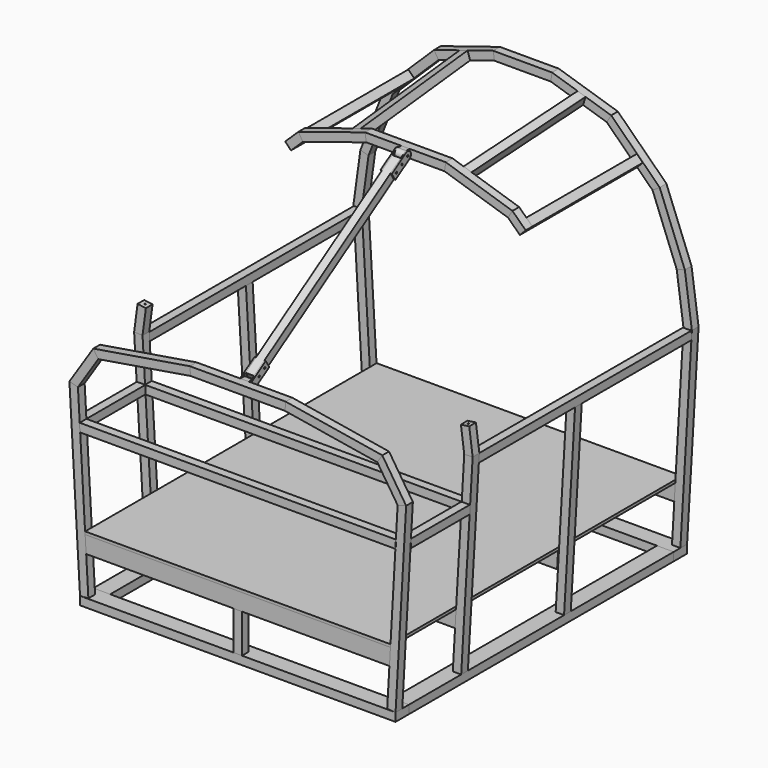
from build123d import *

# Parameters (mm, degrees)
F1_DEPTH  = 76.2
F2_W      = 76.2
F2_H      = 38.1
F3_DEPTH  = 1504.95
F4_W      = 1435.1
F4_H      = 38.1
F5_DEPTH  = 76.2
F7_DEPTH  = 38.1
F8_DEPTH  = 38.1
F9_DEPTH  = 38.1
F10_DEPTH = 38.1
F11_DEPTH = 38.1
F12_DEPTH = 38.1
F18_DEPTH = 19.05
F20_DEPTH = 38.1
F21_DEPTH = 38.1
F25_DEPTH = 38.1
F26_DEPTH = 38.1
F29_DEPTH = 38.1
F30_DEPTH = 38.1
F31_DEPTH = 38.1
F32_DEPTH = 38.1
F33_DEPTH = 38.1
F35_DEPTH = 38.1
F36_W     = 38.1
F36_H     = 38.1
F37_DEPTH = 334.8482
F39_W     = 38.1
F39_H     = 38.1
F40_DEPTH = 1208.2018
F42_DEPTH = 38.1
F45_DEPTH = 628.0912
F51_R     = 3.175
F52_DEPTH = 19.05
F53_R     = 4.191
F54_DEPTH = 6.35
F57_DEPTH = 38.1
F58_DEPTH = 38.1
F60_DEPTH = 38.1
F62_DEPTH = 38.1
F64_DEPTH = 38.1
F65_W     = 38.1
F65_H     = 176.6824
F66_DEPTH = 38.1
F67_W     = 38.1
F67_H     = 176.6824
F68_DEPTH = 38.1
F69_W     = 38.1
F69_H     = 38.1
F70_DEPTH = 334.8482
F71_W     = 38.1
F71_H     = 38.1
F72_DEPTH = 542.0106
F73_W     = 38.1
F73_H     = 38.1
F74_DEPTH = 628.0912
F75_W     = 1388.5502238782
F75_H     = 1657.35
F76_DEPTH = 12.7
F77_R     = 3.175
F78_DEPTH = 25.4
F79_R     = 3.175
F80_DEPTH = 25.4
F81_R     = 3.175
F82_DEPTH = 25.4
F83_R     = 3.175
F84_DEPTH = 25.4


with BuildPart() as f1:
    # F0 (on Front) → F1 (new body)
    with BuildSketch(Plane.XZ):
        Polygon((-717.55, 0), (0, 0), (717.55, 0), (717.55, 38.1), (0, 38.1), (-717.55, 38.1), align=None)
    extrude(amount=-F1_DEPTH)


with BuildPart() as f3:
    # F2 (on face) → F3 (new body)
    with BuildSketch(Plane(origin=(0, 76.2, 0), x_dir=(-1, 0, 0), z_dir=(0, 1, 0))):
        with Locations((-679.45, 19.05)):
            Rectangle(F2_W, F2_H)
    extrude(amount=F3_DEPTH)


with BuildPart() as f3b:
    # F2 (on face) → F3, piece 2 (new body)
    with BuildSketch(Plane(origin=(0, 76.2, 0), x_dir=(-1, 0, 0), z_dir=(0, 1, 0))):
        with Locations((679.45, 19.05)):
            Rectangle(F2_W, F2_H)
    extrude(amount=F3_DEPTH)


with BuildPart() as f5:
    # F4 (on face) → F5 (new body)
    with BuildSketch(Plane(origin=(0, 1581.15, 0), x_dir=(-1, 0, 0), z_dir=(0, 1, 0))):
        with Locations((0, 19.05)):
            Rectangle(F4_W, F4_H)
    extrude(amount=F5_DEPTH)


with BuildPart() as f7:
    # F6 (on face) → F7 (new body)
    with BuildSketch(Plane(origin=(0, 1657.35, 0), x_dir=(-1, 0, 0), z_dir=(0, 1, 0))):
        Polygon((-731.585384678, 924.5893543266), (-769.8393964493, 926.084), (-717.55, 38.1), (-679.3840012111, 38.1), (-689.7880355847, 214.7824), (-694.2751119391, 290.9824), align=None)
    extrude(amount=-F7_DEPTH)


with BuildPart() as f8:
    # F6 (on face) → F8 (new body)
    with BuildSketch(Plane(origin=(0, 1657.35, 0), x_dir=(-1, 0, 0), z_dir=(0, 1, 0))):
        Polygon((-737.8697023898, 1158.113), (-769.8393964493, 926.084), (-731.585384678, 924.5893543266), (-700.7408249736, 1148.4523769238), align=None)
    extrude(amount=-F8_DEPTH)


with BuildPart() as f9:
    # F6 (on face) → F9 (new body)
    with BuildSketch(Plane(origin=(0, 1657.35, 0), x_dir=(-1, 0, 0), z_dir=(0, 1, 0))):
        Polygon((-623.4867436921, 1451.1274), (-737.8697023898, 1158.113), (-700.7408249736, 1148.4523769238), (-590.9644218941, 1429.6661805248), align=None)
    extrude(amount=-F9_DEPTH)


with BuildPart() as f10:
    # F6 (on face) → F10 (new body)
    with BuildSketch(Plane(origin=(0, 1657.35, 0), x_dir=(-1, 0, 0), z_dir=(0, 1, 0))):
        Polygon((-402.7496847997, 1667.9164), (-623.4867436921, 1451.1274), (-590.9644218941, 1429.6661805248), (-382.599937512, 1634.3038994078), align=None)
    extrude(amount=-F10_DEPTH)


with BuildPart() as f11:
    # F6 (on face) → F11 (new body)
    with BuildSketch(Plane(origin=(0, 1657.35, 0), x_dir=(-1, 0, 0), z_dir=(0, 1, 0))):
        Polygon((-133.8208125622, 1752.1936), (-402.7496847997, 1667.9164), (-382.599937512, 1634.3038994078), (-127.9906932986, 1714.0936), align=None)
    extrude(amount=-F11_DEPTH)


with BuildPart() as f12:
    # F6 (on face) → F12 (new body)
    with BuildSketch(Plane(origin=(0, 1657.35, 0), x_dir=(-1, 0, 0), z_dir=(0, 1, 0))):
        Polygon((0, 1752.1936), (-133.8208125622, 1752.1936), (-127.9906932986, 1714.0936), (0, 1714.0936), (127.9906932986, 1714.0936), (133.8208125622, 1752.1936), align=None)
    extrude(amount=-F12_DEPTH)


with BuildPart() as f13_1:
    # F13: instance of F11
    add(f11.part.mirror(Plane.YZ))


with BuildPart() as f13_2:
    # F13: instance of F10
    add(f10.part.mirror(Plane.YZ))


with BuildPart() as f13_3:
    # F13: instance of F9
    add(f9.part.mirror(Plane.YZ))


with BuildPart() as f13_4:
    # F13: instance of F8
    add(f8.part.mirror(Plane.YZ))


with BuildPart() as f13_5:
    # F13: instance of F7
    add(f7.part.mirror(Plane.YZ))


with BuildPart() as f18:
    # F17 (on offset) → F18 (new body, symmetric)
    with BuildSketch(Plane(origin=(0, 977.0491, 0), x_dir=(-1, 0, 0), z_dir=(0, 1, 0))):
        Polygon((-679.3840012111, 38.1), (-729.3418465009, 886.4893543266), (-767.5078452897, 886.4893543266), (-717.55, 38.1), align=None)
    extrude(amount=F18_DEPTH, both=True)


with BuildPart() as f19_1:
    # F19: instance of F18
    add(f18.part.mirror(Plane.YZ))


with BuildPart() as f20:
    # F16 (on offset) → F20 (new body)
    with BuildSketch(Plane(origin=(0, 991.1588, 0), x_dir=(-1, 0, 0), z_dir=(0, 1, 0))):
        Polygon((-177.7352967525, 1641.856), (-183.642, 1679.956), (-486.7320398449, 1583.6646), (-466.6687442564, 1550.0621351102), align=None)
    extrude(amount=-F20_DEPTH)


with BuildPart() as f21:
    # F16 (on offset) → F21 (new body)
    with BuildSketch(Plane(origin=(0, 991.1588, 0), x_dir=(-1, 0, 0), z_dir=(0, 1, 0))):
        Polygon((183.642, 1679.956), (-183.642, 1679.956), (-177.7352967525, 1641.856), (177.7352967525, 1641.856), align=None)
    extrude(amount=-F21_DEPTH)


with BuildPart() as f22_1:
    # F22: instance of F20
    add(f20.part.mirror(Plane.YZ))


with BuildPart() as f25:
    # F24 (on offset) → F25 (new body)
    with BuildSketch(Plane(origin=(0, 411.0482, 0), x_dir=(-1, 0, 0), z_dir=(0, 1, 0))):
        Polygon((-720.1685338879, 730.7072), (-731.585384678, 924.5893543266), (-769.8393964493, 926.084), (-717.55, 38.1), (-679.3840012111, 38.1), (-717.9249957107, 692.6072), align=None)
    extrude(amount=-F25_DEPTH)


with BuildPart() as f26:
    # F24 (on offset) → F26 (new body)
    with BuildSketch(Plane(origin=(0, 411.0482, 0), x_dir=(-1, 0, 0), z_dir=(0, 1, 0))):
        Polygon((-769.8393964493, 926.084), (-731.585384678, 924.5893543266), (-716.3666183451, 1038.641758548), (-754.1312264878, 1043.686), align=None)
    extrude(amount=-F26_DEPTH)


with BuildPart() as f27_1:
    # F27: instance of F25
    add(f25.part.mirror(Plane.YZ))


with BuildPart() as f27_2:
    # F27: instance of F26
    add(f26.part.mirror(Plane.YZ))

    # F77 (on face) → F78 (cut)
    with BuildSketch(Plane(origin=(123.7435114836, 0, 926.4277425814), x_dir=(0.9911970641, 0, -0.1323947888), z_dir=(0.1323947888, 0, 0.9911970641))):
        with Locations((-866.6212451589, 391.9982)):
            Circle(F77_R)
    extrude(amount=-F78_DEPTH, mode=Mode.SUBTRACT)


with BuildPart() as f29:
    # F24 (on offset) → F29 (new body)
    with BuildSketch(Plane(origin=(0, 411.0482, 0), x_dir=(-1, 0, 0), z_dir=(0, 1, 0))):
        Polygon((0, 730.7072), (-720.1685338879, 730.7072), (-717.9249957107, 692.6072), (0, 692.6072), (717.9249957107, 692.6072), (720.1685338879, 730.7072), align=None)
    extrude(amount=-F29_DEPTH)


with BuildPart() as f30:
    # F28 (on face) → F30 (new body)
    with BuildSketch(Plane.XZ):
        Polygon((679.5121095345, 40.2746008676), (717.55, 38.1), (765.7437829273, 881.1006), (726.9927701037, 870.8013393187), (718.9836814509, 730.7072), (720.1685338879, 730.7072), (717.9249957107, 692.6072), (716.8055298227, 692.6072), align=None)
    extrude(amount=-F30_DEPTH)


with BuildPart() as f31:
    # F28 (on face) → F31 (new body)
    with BuildSketch(Plane.XZ):
        Polygon((726.9927701037, 870.8013393187), (765.7437829273, 881.1006), (657.354913428, 1047.75), (634.583696639, 1012.8815798321), align=None)
    extrude(amount=-F31_DEPTH)


with BuildPart() as f32:
    # F28 (on face) → F32 (new body)
    with BuildSketch(Plane.XZ):
        Polygon((634.583696639, 1012.8815798321), (657.354913428, 1047.75), (217.8616634535, 1119.9876), (214.7513645654, 1081.8876), align=None)
    extrude(amount=-F32_DEPTH)


with BuildPart() as f33:
    # F28 (on face) → F33 (new body)
    with BuildSketch(Plane.XZ):
        Polygon((214.7513645654, 1081.8876), (217.8616634535, 1119.9876), (0, 1119.9876), (-217.8616634535, 1119.9876), (-214.7513645654, 1081.8876), (0, 1081.8876), align=None)
    extrude(amount=-F33_DEPTH)


with BuildPart() as f34_1:
    # F34: instance of F32
    add(f32.part.mirror(Plane.YZ))


with BuildPart() as f34_2:
    # F34: instance of F31
    add(f31.part.mirror(Plane.YZ))


with BuildPart() as f34_3:
    # F34: instance of F30
    add(f30.part.mirror(Plane.YZ))


with BuildPart() as f35:
    # F28 (on face) → F35 (new body)
    with BuildSketch(Plane.XZ):
        Polygon((0, 692.6072), (716.8055298227, 692.6072), (718.9836814509, 730.7072), (0, 730.7072), (-720.1685338879, 730.7072), (-717.9249957107, 692.6072), align=None)
    extrude(amount=-F35_DEPTH)


with BuildPart() as f37:
    # F36 (on face) → F37 (new body, through all)
    with BuildSketch(Plane.XZ.offset(-372.9482)):
        with Locations((738.0336814509, 711.6572)):
            Rectangle(F36_W, F36_H)
    extrude(amount=F37_DEPTH)


with BuildPart() as f38_1:
    # F38: instance of F37
    add(f37.part.mirror(Plane.YZ))


with BuildPart() as f40:
    # F39 (on face) → F40 (new body, through all)
    with BuildSketch(Plane.XZ.offset(-1619.25)):
        with Locations((748.3918465009, 905.5393543266)):
            Rectangle(F39_W, F39_H)
    extrude(amount=F40_DEPTH)


with BuildPart() as f41_1:
    # F41: instance of F40
    add(f40.part.mirror(Plane.YZ))


with BuildPart() as f42:
    # F16 (on offset) → F42 (new body)
    with BuildSketch(Plane(origin=(0, 991.1588, 0), x_dir=(-1, 0, 0), z_dir=(0, 1, 0))):
        Polygon((-466.6687442564, 1550.0621351102), (-486.7320398449, 1583.6646), (-546.9520067768, 1525.397), (-520.4587484844, 1498.0160346216), align=None)
    extrude(amount=-F42_DEPTH)


with BuildPart() as f43_1:
    # F43: instance of F42
    add(f42.part.mirror(Plane.YZ))

    # F83 (on face) → F84 (cut)
    with BuildSketch(Plane(origin=(479.7985563096, 0, 464.2432034423), x_dir=(0, -1, 0), z_dir=(-0.7186605086, 0, -0.69536111))):
        with Locations((-972.1088, 1457.5217384357)):
            Circle(F83_R)
    extrude(amount=-F84_DEPTH, mode=Mode.SUBTRACT)


with BuildPart() as f45:
    # F44 (on face) → F45 (new body, through all)
    with BuildSketch(Plane(origin=(0, 991.1588, 0), x_dir=(-1, 0, 0), z_dir=(0, 1, 0))):
        Polygon((-519.5710413984, 1551.8902582924), (-546.9520067768, 1525.397), (-520.4587484844, 1498.0160346216), (-493.077783106, 1524.509292914), align=None)
    extrude(amount=F45_DEPTH)


with BuildPart() as f46_1:
    # F46: instance of F45
    add(f45.part.mirror(Plane.YZ))


with BuildPart() as f49:
    # F47 (on face) → F49 section 0
    with BuildSketch(Plane.XZ.offset(-1619.25)):
        Polygon((-238.7135162377, 1679.395170576), (-250.1069704227, 1715.7517270925), (-286.4635269392, 1704.3582729075), (-275.0700727542, 1668.0017163911), align=None)
    # F48 (on face) → F49 section 1
    with BuildSketch(Plane(origin=(0, 991.1588, 0), x_dir=(-1, 0, 0), z_dir=(0, 1, 0))):
        Polygon((258.6015589484, 1616.164870052), (270.1376967794, 1652.4764043619), (233.8264424539, 1664.0124532422), (222.2903046229, 1627.7009189322), align=None)
    loft()


with BuildPart() as f50_1:
    # F50: instance of F49
    add(f49.part.mirror(Plane.YZ))


with BuildPart() as f52:
    # F51 (on Right) → F52 (new body, symmetric)
    with BuildSketch(Plane.YZ):
        with BuildLine():
            Line((953.0588, 1641.856), (953.0588, 1679.956))
            Line((953.0588, 1679.956), (934.0088, 1679.956))
            ThreePointArc((934.0088, 1679.956), (914.9588, 1660.906), (934.0088, 1641.856))
            Line((934.0088, 1641.856), (953.0588, 1641.856))
        make_face()
        with Locations((934.0088, 1660.906)):
            Circle(F51_R, mode=Mode.SUBTRACT)
    extrude(amount=F52_DEPTH, both=True)


with BuildPart() as f52b:
    # F51 (on Right) → F52, piece 2 (new body, symmetric)
    with BuildSketch(Plane.YZ):
        with BuildLine():
            Line((57.15, 1119.9876), (38.1, 1119.9876))
            Line((38.1, 1119.9876), (38.1, 1081.8876))
            Line((38.1, 1081.8876), (57.15, 1081.8876))
            ThreePointArc((57.15, 1081.8876), (76.2, 1100.9376), (57.15, 1119.9876))
        make_face()
        with Locations((57.15, 1100.9376)):
            Circle(F51_R, mode=Mode.SUBTRACT)
    extrude(amount=F52_DEPTH, both=True)


with BuildPart() as f54:
    # F53 (on face) → F54 (new body)
    with BuildSketch(Plane.YZ.offset(19.05)):
        with BuildLine():
            Line((67.4031045757, 1084.8821851328), (147.6801789119, 1136.1477080114))
            Line((147.6801789119, 1136.1477080114), (127.1739697605, 1168.2585377459))
            Line((127.1739697605, 1168.2585377459), (46.8968954243, 1116.9930148672))
            ThreePointArc((46.8968954243, 1116.9930148672), (41.0945851328, 1090.6844954243), (67.4031045757, 1084.8821851328))
        make_face()
        with Locations((57.15, 1100.9376)):
            Circle(F53_R, mode=Mode.SUBTRACT)
        with Locations((89.2608297345, 1121.4438091515)):
            Circle(F53_R, mode=Mode.SUBTRACT)
        with Locations((121.371659469, 1141.9500183029)):
            Circle(F53_R, mode=Mode.SUBTRACT)
    extrude(amount=F54_DEPTH)


with BuildPart() as f54b:
    # F53 (on face) → F54, piece 2 (new body)
    with BuildSketch(Plane.YZ.offset(19.05)):
        with BuildLine():
            Line((923.7556954243, 1676.9614148672), (843.4786210881, 1625.6958919886))
            Line((843.4786210881, 1625.6958919886), (863.9848302395, 1593.5850622541))
            Line((863.9848302395, 1593.5850622541), (944.2619045757, 1644.8505851328))
            ThreePointArc((944.2619045757, 1644.8505851328), (950.0642148672, 1671.1591045757), (923.7556954243, 1676.9614148672))
        make_face()
        with Locations((869.787140531, 1619.8935816971)):
            Circle(F53_R, mode=Mode.SUBTRACT)
        with Locations((901.8979702655, 1640.3997908485)):
            Circle(F53_R, mode=Mode.SUBTRACT)
        with Locations((934.0088, 1660.906)):
            Circle(F53_R, mode=Mode.SUBTRACT)
    extrude(amount=F54_DEPTH)


with BuildPart() as f55_1:
    # F55: instance of F54b
    add(f54b.part.mirror(Plane.YZ))


with BuildPart() as f55_2:
    # F55: instance of F54
    add(f54.part.mirror(Plane.YZ))


with BuildPart() as f57:
    # F56 (on face) → F57 (new body)
    with BuildSketch(Plane.YZ.offset(-19.05)):
        Polygon((902.3484756013, 1663.2906087663), (68.3041152473, 1130.6638209682), (88.8103243987, 1098.5529912337), (922.8546847527, 1631.1797790318), align=None)
    extrude(amount=F57_DEPTH)


with BuildPart() as f58:
    # F6 (on face) → F58 (new body)
    with BuildSketch(Plane(origin=(0, 1657.35, 0), x_dir=(-1, 0, 0), z_dir=(0, 1, 0))):
        Polygon((0, 290.9824), (-694.2751119391, 290.9824), (-689.7880355847, 214.7824), (0, 214.7824), (689.7880355847, 214.7824), (694.2751119391, 290.9824), align=None)
    extrude(amount=-F58_DEPTH)


with BuildPart() as f60:
    # F59 (on offset) → F60 (new body)
    with BuildSketch(Plane(origin=(0, 991.1588, 0), x_dir=(-1, 0, 0), z_dir=(0, 1, 0))):
        Polygon((694.2751119391, 290.9824), (0, 290.9824), (-694.2751119391, 290.9824), (-689.7880355847, 214.7824), (0, 214.7824), (689.7880355847, 214.7824), align=None)
    extrude(amount=-F60_DEPTH)


with BuildPart() as f62:
    # F61 (on offset) → F62 (new body)
    with BuildSketch(Plane(origin=(0, 411.0482, 0), x_dir=(-1, 0, 0), z_dir=(0, 1, 0))):
        Polygon((-689.7880355847, 214.7824), (689.7880355847, 214.7824), (694.2751119391, 290.9824), (-694.2751119391, 290.9824), align=None)
    extrude(amount=-F62_DEPTH)


with BuildPart() as f64:
    # F63 (on Front) → F64 (new body)
    with BuildSketch(Plane.XZ):
        Polygon((689.7880355847, 214.7824), (694.2751119391, 290.9824), (-694.2751119391, 290.9824), (-689.7880355847, 214.7824), align=None)
    extrude(amount=-F64_DEPTH)


with BuildPart() as f66:
    # F65 (on face) → F66 (new body)
    with BuildSketch(Plane(origin=(0, 1657.35, 0), x_dir=(-1, 0, 0), z_dir=(0, 1, 0))):
        with Locations((0, 126.4412)):
            Rectangle(F65_W, F65_H)
    extrude(amount=-F66_DEPTH)


with BuildPart() as f68:
    # F67 (on Front) → F68 (new body)
    with BuildSketch(Plane.XZ):
        with Locations((0, 126.4412)):
            Rectangle(F67_W, F67_H)
    extrude(amount=-F68_DEPTH)


with BuildPart() as f70:
    # F69 (on face) → F70 (new body, through all)
    with BuildSketch(Plane(origin=(0, 38.1, 0), x_dir=(-1, 0, 0), z_dir=(0, 1, 0))):
        with Locations((0, 271.9324)):
            Rectangle(F69_W, F69_H)
    extrude(amount=F70_DEPTH)


with BuildPart() as f72:
    # F71 (on face) → F72 (new body, through all)
    with BuildSketch(Plane(origin=(0, 411.0482, 0), x_dir=(-1, 0, 0), z_dir=(0, 1, 0))):
        with Locations((-231.4871119391, 271.9324)):
            Rectangle(F71_W, F71_H)
    extrude(amount=F72_DEPTH)


with BuildPart() as f72b:
    # F71 (on face) → F72, piece 2 (new body, through all)
    with BuildSketch(Plane(origin=(0, 411.0482, 0), x_dir=(-1, 0, 0), z_dir=(0, 1, 0))):
        with Locations((231.4871119391, 271.9324)):
            Rectangle(F71_W, F71_H)
    extrude(amount=F72_DEPTH)


with BuildPart() as f74:
    # F73 (on face) → F74 (new body, through all)
    with BuildSketch(Plane(origin=(0, 991.1588, 0), x_dir=(-1, 0, 0), z_dir=(0, 1, 0))):
        with Locations((-231.4871119391, 271.9324)):
            Rectangle(F73_W, F73_H)
    extrude(amount=F74_DEPTH)


with BuildPart() as f74b:
    # F73 (on face) → F74, piece 2 (new body, through all)
    with BuildSketch(Plane(origin=(0, 991.1588, 0), x_dir=(-1, 0, 0), z_dir=(0, 1, 0))):
        with Locations((231.4871119391, 271.9324)):
            Rectangle(F73_W, F73_H)
    extrude(amount=F74_DEPTH)


with BuildPart() as f76:
    # F75 (on face) → F76 (new body)
    with BuildSketch(Plane.XY.offset(290.9824)):
        with Locations((0, 828.675)):
            Rectangle(F75_W, F75_H)
    extrude(amount=F76_DEPTH)


with BuildPart() as f26_1:
    add(f26.part)

    # F79 (on face) → F80 (cut)
    with BuildSketch(Plane(origin=(-123.7435114836, 0, 926.4277425814), x_dir=(0.9911970641, 0, 0.1323947888), z_dir=(-0.1323947888, 0, 0.9911970641))):
        with Locations((866.6212451589, 391.9982)):
            Circle(F79_R)
    extrude(amount=-F80_DEPTH, mode=Mode.SUBTRACT)


with BuildPart() as f42_1:
    add(f42.part)

    # F81 (on face) → F82 (cut)
    with BuildSketch(Plane(origin=(-479.7985563096, 0, 464.2432034423), x_dir=(0, 1, 0), z_dir=(0.7186605086, 0, -0.69536111))):
        with Locations((972.1088, 1457.5217384357)):
            Circle(F81_R)
    extrude(amount=-F82_DEPTH, mode=Mode.SUBTRACT)


solid = Compound([f1.part, f3.part, f3b.part, f5.part, f7.part, f8.part, f9.part, f10.part, f11.part, f12.part, f13_1.part, f13_2.part, f13_3.part, f13_4.part, f13_5.part, f18.part, f19_1.part, f20.part, f21.part, f22_1.part, f25.part, f27_1.part, f27_2.part, f29.part, f30.part, f31.part, f32.part, f33.part, f34_1.part, f34_2.part, f34_3.part, f35.part, f37.part, f38_1.part, f40.part, f41_1.part, f43_1.part, f45.part, f46_1.part, f49.part, f50_1.part, f52.part, f52b.part, f54.part, f54b.part, f55_1.part, f55_2.part, f57.part, f58.part, f60.part, f62.part, f64.part, f66.part, f68.part, f70.part, f72.part, f72b.part, f74.part, f74b.part, f76.part, f26_1.part, f42_1.part])
